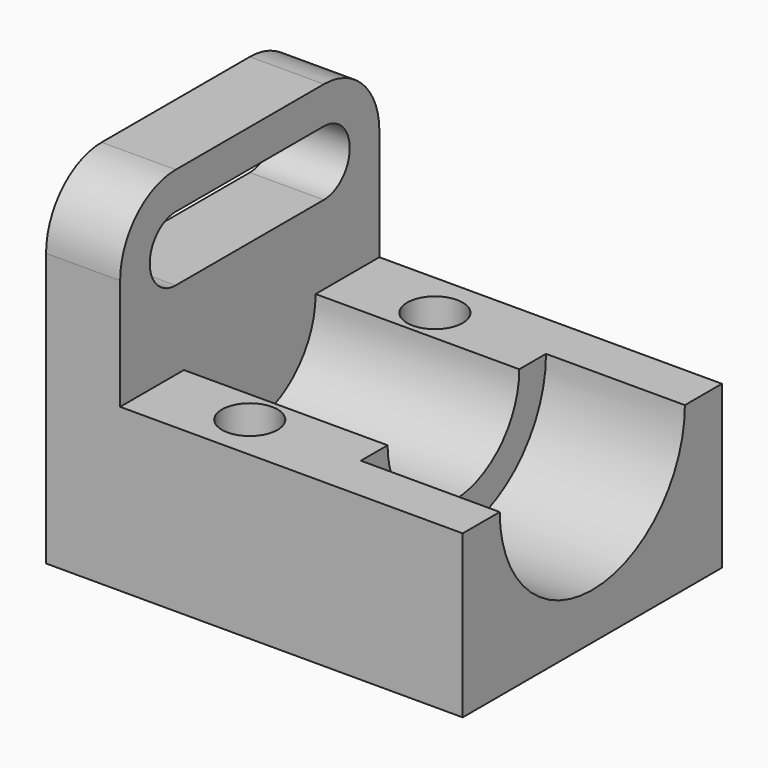
from build123d import *

# Parameters (mm, degrees)
F1_DEPTH  = 35
F3_DEPTH  = 30
F5_DEPTH  = 44
F6_R      = 15
F8_DEPTH  = 16.001
F9_R      = 6
F10_DEPTH = 35.001


with BuildPart() as f1:
    # F0 (on Front) → F1 (new body, symmetric)
    with BuildSketch(Plane.XZ):
        Polygon((0, 74), (0, 0), (90, 0), (90, 35), (16, 35), (16, 74), align=None)
    extrude(amount=F1_DEPTH, both=True)

    # F2 (on face) → F3 (cut)
    with BuildSketch(Plane.YZ.offset(90)):
        with BuildLine():
            Line((25, 35), (-25, 35))
            ThreePointArc((-25, 35), (0, 10), (25, 35))
        make_face()
    extrude(amount=-F3_DEPTH, mode=Mode.SUBTRACT)

    # F4 (on face) → F5 (cut, through all)
    with BuildSketch(Plane.YZ.offset(60)):
        with BuildLine():
            Line((17.783249, 35), (-17.783249, 35))
            ThreePointArc((-17.783249, 35), (0, 17.216751), (17.783249, 35))
        make_face()
    extrude(amount=-F5_DEPTH, mode=Mode.SUBTRACT)

    # F6
    f6_edges = [f1.edges().sort_by_distance(p)[0] for p in [
        (8, -35, 74),
        (8, 35, 74),
    ]]
    fillet(f6_edges, radius=F6_R)

    # F7 (on face) → F8 (cut, through all)
    with BuildSketch(Plane.YZ.offset(16)):
        with BuildLine():
            ThreePointArc((-20, 66), (-27, 59), (-20, 52))
            Line((-20, 52), (20, 52))
            ThreePointArc((20, 52), (27, 59), (20, 66))
            Line((20, 66), (-20, 66))
        make_face()
    extrude(amount=-F8_DEPTH, mode=Mode.SUBTRACT)

    # F9 (on face) → F10 (cut, through all)
    with BuildSketch(Plane.XY.offset(35)):
        with Locations((36, -25)):
            Circle(F9_R)
        with Locations((36, 25)):
            Circle(F9_R)
    extrude(amount=-F10_DEPTH, mode=Mode.SUBTRACT)


solid = f1.part
